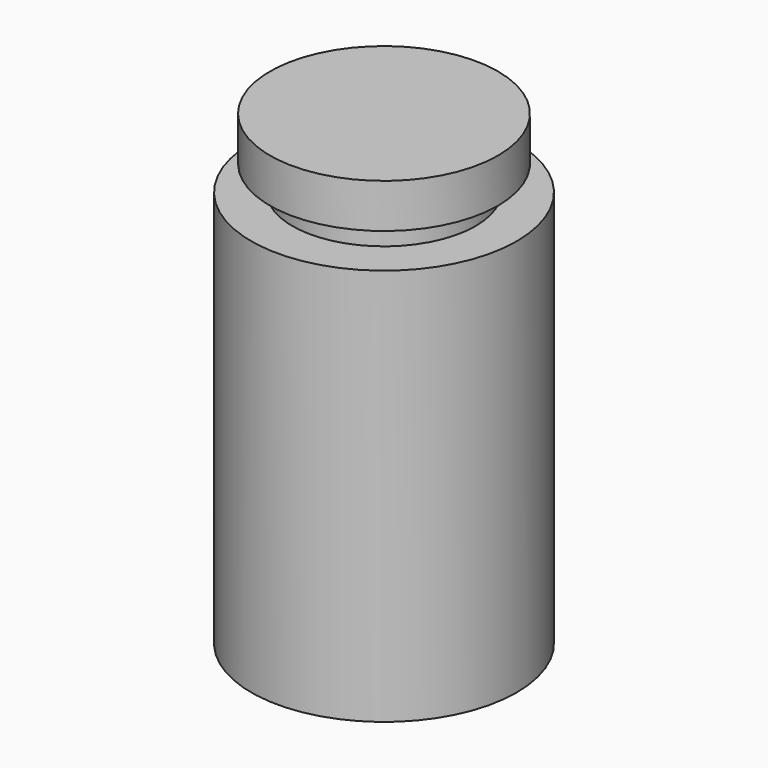
from build123d import *

# Parameters (mm, degrees)
F0_R     = 76.385424
F1_DEPTH = 228.6
F2_R     = 52.72962
F3_DEPTH = 14.478
F4_R     = 65.606028
F5_DEPTH = 25.4
F6_R     = 10.679564
F7_DEPTH = 21.082
F8_R     = 6.299562
F9_DEPTH = 13.716


with BuildPart() as f1:
    # F0 (on Top) → F1 (new body)
    with BuildSketch(Plane.XY):
        Circle(F0_R)
    extrude(amount=F1_DEPTH)

    # F2 (on face) → F3 (join)
    with BuildSketch(Plane.XY.offset(228.6)):
        Circle(F2_R)
    extrude(amount=F3_DEPTH)

    # F4 (on face) → F5 (join)
    with BuildSketch(Plane.XY.offset(243.078)):
        Circle(F4_R)
    extrude(amount=F5_DEPTH)

    # F6 (on face) → F7 (join)
    with BuildSketch(Plane(origin=(0, 0, 0), x_dir=(1, 0, 0), z_dir=(0, 0, -1))):
        Circle(F6_R)
    extrude(amount=F7_DEPTH)

    # F8 (on face) → F9 (join)
    with BuildSketch(Plane(origin=(0, 0, -21.082), x_dir=(1, 0, 0), z_dir=(0, 0, -1))):
        Circle(F8_R)
    extrude(amount=F9_DEPTH)


solid = f1.part
